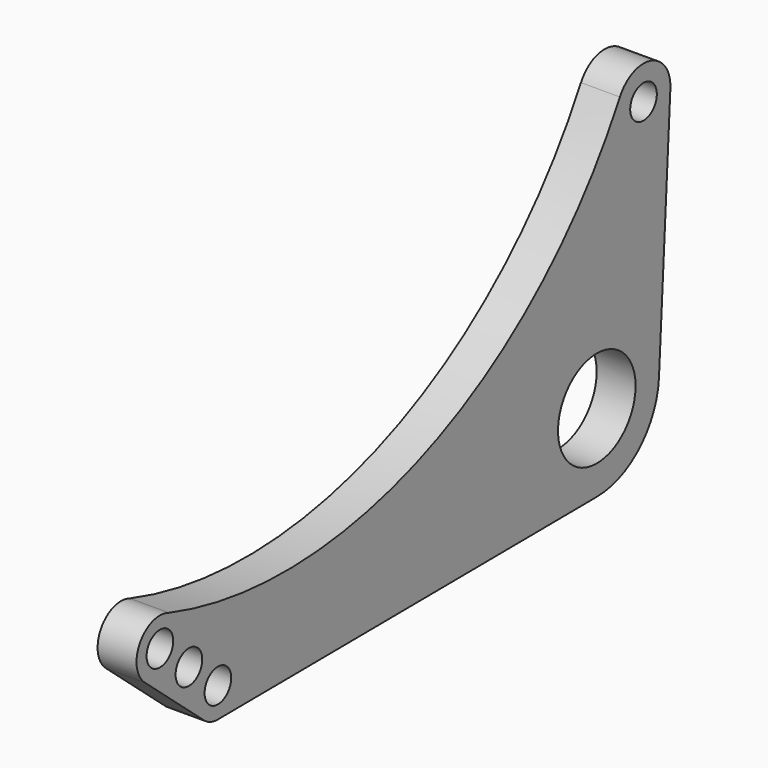
from build123d import *

# Parameters (mm, degrees)
F0_R     = 5.42925
F0_R_2   = 15.8115
F1_DEPTH = 12.7


with BuildPart() as f1:
    # F0 (on Right) → F1 (new body)
    with BuildSketch(Plane.YZ):
        with BuildLine():
            Line((-154.488795, -26.534761), (0, -25.4))
            ThreePointArc((0, -25.4), (17.438947, -18.467353), (25.358361, -1.45379))
            Line((25.358361, -1.45379), (30.010518, 79.693488))
            ThreePointArc((30.010518, 79.693488), (22.077109, 90.874786), (9.422991, 85.59902))
            ThreePointArc((9.422991, 85.59902), (-69.333406, 15.888309), (-174.446099, 12.217438))
            ThreePointArc((-174.446099, 12.217438), (-186.251925, 8.445986), (-184.337166, -3.798813))
            Line((-184.337166, -3.798813), (-160.687818, -24.016462))
            ThreePointArc((-160.687818, -24.016462), (-157.839108, -25.892982), (-154.488795, -26.534761))
        make_face()
        with Locations((-154.498427, -16.776499)):
            Circle(F0_R, mode=Mode.SUBTRACT)
        with Locations((-166.323101, -6.667674)):
            Circle(F0_R, mode=Mode.SUBTRACT)
        with Locations((-178.147775, 3.441151)):
            Circle(F0_R, mode=Mode.SUBTRACT)
        Circle(F0_R_2, mode=Mode.SUBTRACT)
        with Locations((19.05, 80.321853)):
            Circle(F0_R, mode=Mode.SUBTRACT)
    extrude(amount=F1_DEPTH)


solid = f1.part
